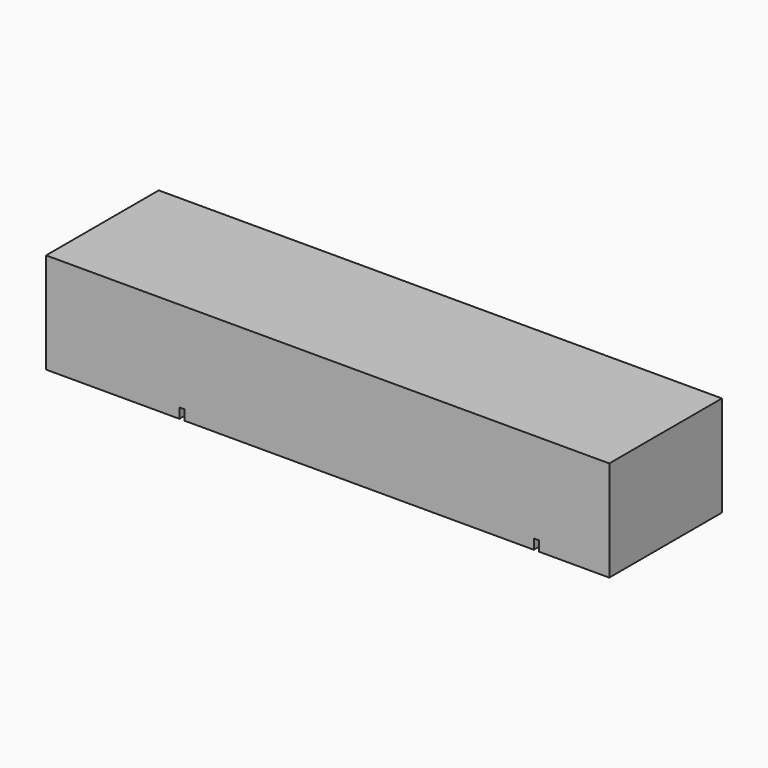
from build123d import *

# Parameters (mm, degrees)
F0_W     = 177.8
F0_H     = 44.45
F1_DEPTH = 31.75
F2_W     = 1.5875
F2_H     = 44.45
F3_DEPTH = 3.175


with BuildPart() as f1:
    # F0 (on Top) → F1 (new body)
    with BuildSketch(Plane.XY):
        with Locations((-88.9, -22.225)):
            Rectangle(F0_W, F0_H)
    extrude(amount=F1_DEPTH)

    # F2 (on face) → F3 (cut)
    with BuildSketch(Plane(origin=(0, 0, 0), x_dir=(1, 0, 0), z_dir=(0, 0, -1))):
        with Locations((-23.01875, 22.225)):
            Rectangle(F2_W, F2_H)
        with Locations((-134.9375, 22.225)):
            Rectangle(F2_W, F2_H)
    extrude(amount=-F3_DEPTH, mode=Mode.SUBTRACT)


solid = f1.part
